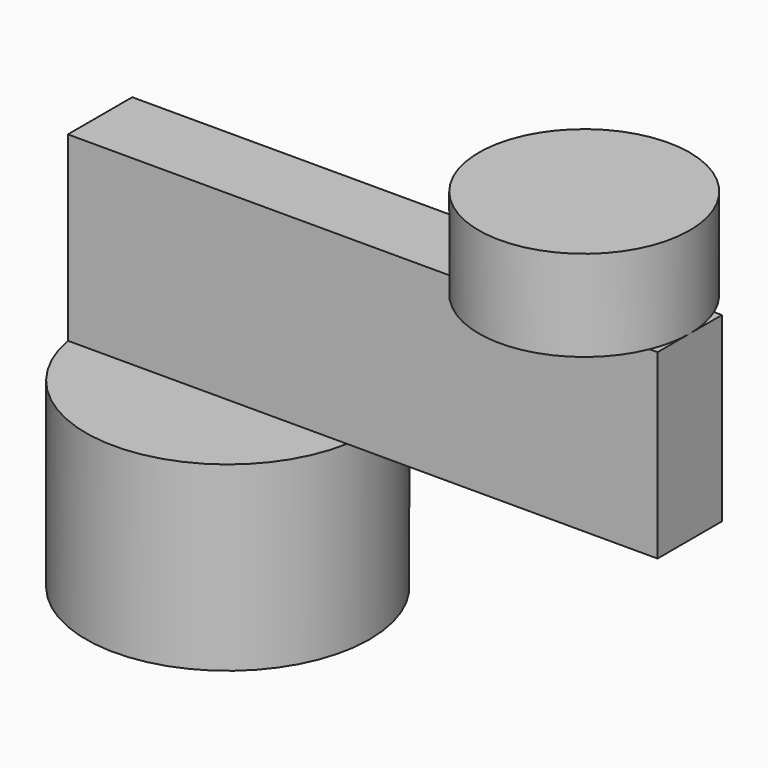
from build123d import *

# Parameters (mm, degrees)
F0_R     = 39.669031
F1_DEPTH = 50.8
F2_W     = 164.8714
F2_H     = 22.5044
F3_DEPTH = 50.8
F4_R     = 29.483295
F5_DEPTH = 25.4


with BuildPart() as f1:
    # F0 (on Top) → F1 (new body)
    with BuildSketch(Plane.XY):
        Circle(F0_R)
    extrude(amount=F1_DEPTH)

    # F2 (on face) → F3 (join)
    with BuildSketch(Plane.XY.offset(50.8)):
        with Locations((43.408703, 4.14407)):
            Rectangle(F2_W, F2_H)
    extrude(amount=F3_DEPTH)

    # F4 (on face) → F5 (join)
    with BuildSketch(Plane.XY.offset(101.6)):
        with Locations((96.361108, 4.14407)):
            Circle(F4_R)
    extrude(amount=F5_DEPTH)


solid = f1.part
